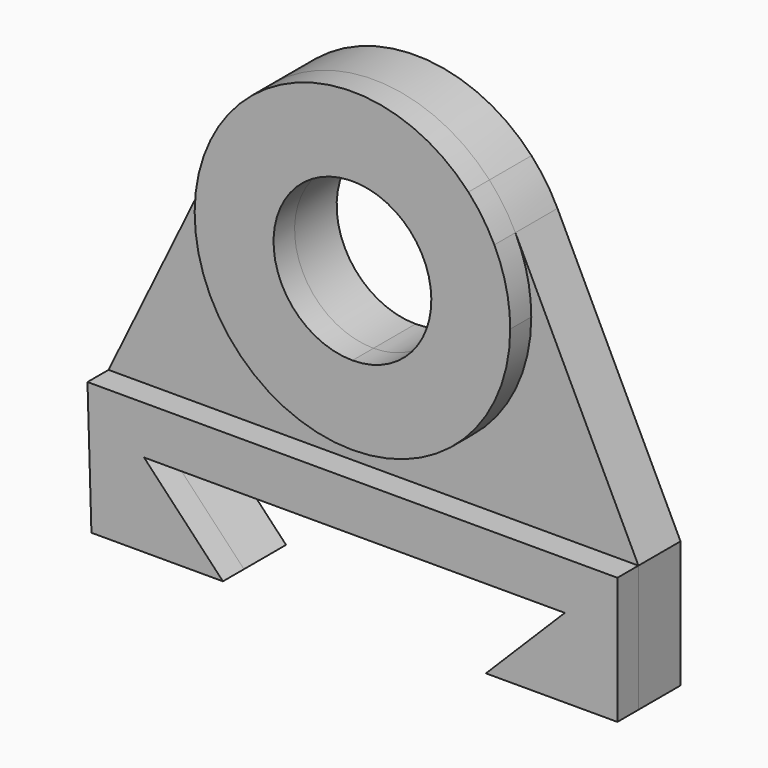
from build123d import *

# Parameters (mm, degrees)
F1_DEPTH = 30
F2_DEPTH = 20


with BuildPart() as f1:
    # F0 (on Front) → F1 (new body)
    with BuildSketch(Plane.XZ):
        Polygon((0, 0), (-100.7500622123, 0), (-99.2499377877, -49.9774912006), (-49.2499377877, -49.9774912006), (-79.2499377877, -18.2564388961), (80.7500622123, -18.2564388961), (50.7500622123, -48.2564388961), (100.7500622123, -48.2564388961), (100.7500622123, 0), align=None)
    extrude(amount=F1_DEPTH)


with BuildPart() as f1b:
    # F0 (on Front) → F1, piece 2 (new body)
    with BuildSketch(Plane.XZ):
        with BuildLine():
            ThreePointArc((44.0881709789, 110.6968448376), (-8.7547879951, 129.3578443608), (-53.9601399207, 96.2355350571))
            ThreePointArc((-53.9601399207, 96.2355350571), (-50.8632092156, 38.1733767376), (0, 10))
            Line((0, 10), (0, 40))
            ThreePointArc((0, 40), (-21.2132034356, 48.7867965644), (-30, 70))
            ThreePointArc((-30, 70), (-10.9242261812, 97.9403164324), (22.0440854895, 90.3484224188))
            Line((22.0440854895, 90.3484224188), (44.0881709789, 110.6968448376))
        make_face()
        with BuildLine():
            Line((0, 40), (0, 10))
            ThreePointArc((0, 10), (42.4264068712, 27.5735931288), (60, 70))
            ThreePointArc((60, 70), (58.4705412804, 83.4608990182), (53.9601399207, 96.2355350571))
            ThreePointArc((53.9601399207, 96.2355350571), (49.554517329, 103.8282398639), (44.0881709789, 110.6968448376))
            Line((44.0881709789, 110.6968448376), (22.0440854895, 90.3484224188))
            ThreePointArc((22.0440854895, 90.3484224188), (27.9403164324, 80.9242261812), (30, 70))
            ThreePointArc((30, 70), (21.2132034356, 48.7867965644), (0, 40))
        make_face()
    extrude(amount=F1_DEPTH)


with BuildPart() as f2:
    # F0 (on Front) → F2 (new body)
    with BuildSketch(Plane.XZ):
        with BuildLine():
            Line((-53.9601399207, 96.2355350571), (-100.7500622123, 0))
            Line((-100.7500622123, 0), (0, 0))
            Line((0, 0), (0, 10))
            ThreePointArc((0, 10), (-50.8632092156, 38.1733767376), (-53.9601399207, 96.2355350571))
        make_face()
        Polygon((0, 0), (-100.7500622123, 0), (-99.2499377877, -49.9774912006), (-49.2499377877, -49.9774912006), (-79.2499377877, -18.2564388961), (80.7500622123, -18.2564388961), (50.7500622123, -48.2564388961), (100.7500622123, -48.2564388961), (100.7500622123, 0), align=None)
        with BuildLine():
            Line((0, 10), (0, 0))
            Line((0, 0), (100.7500622123, 0))
            Line((100.7500622123, 0), (53.9601399207, 96.2355350571))
            ThreePointArc((53.9601399207, 96.2355350571), (58.4705412804, 83.4608990182), (60, 70))
            ThreePointArc((60, 70), (42.4264068712, 27.5735931288), (0, 10))
        make_face()
        with BuildLine():
            ThreePointArc((44.0881709789, 110.6968448376), (-8.7547879951, 129.3578443608), (-53.9601399207, 96.2355350571))
            ThreePointArc((-53.9601399207, 96.2355350571), (-50.8632092156, 38.1733767376), (0, 10))
            Line((0, 10), (0, 40))
            ThreePointArc((0, 40), (-21.2132034356, 48.7867965644), (-30, 70))
            ThreePointArc((-30, 70), (-10.9242261812, 97.9403164324), (22.0440854895, 90.3484224188))
            Line((22.0440854895, 90.3484224188), (44.0881709789, 110.6968448376))
        make_face()
        with BuildLine():
            Line((0, 40), (0, 10))
            ThreePointArc((0, 10), (42.4264068712, 27.5735931288), (60, 70))
            ThreePointArc((60, 70), (58.4705412804, 83.4608990182), (53.9601399207, 96.2355350571))
            ThreePointArc((53.9601399207, 96.2355350571), (49.554517329, 103.8282398639), (44.0881709789, 110.6968448376))
            Line((44.0881709789, 110.6968448376), (22.0440854895, 90.3484224188))
            ThreePointArc((22.0440854895, 90.3484224188), (27.9403164324, 80.9242261812), (30, 70))
            ThreePointArc((30, 70), (21.2132034356, 48.7867965644), (0, 40))
        make_face()
    extrude(amount=F2_DEPTH)


solid = Compound([f1.part, f1b.part, f2.part])
